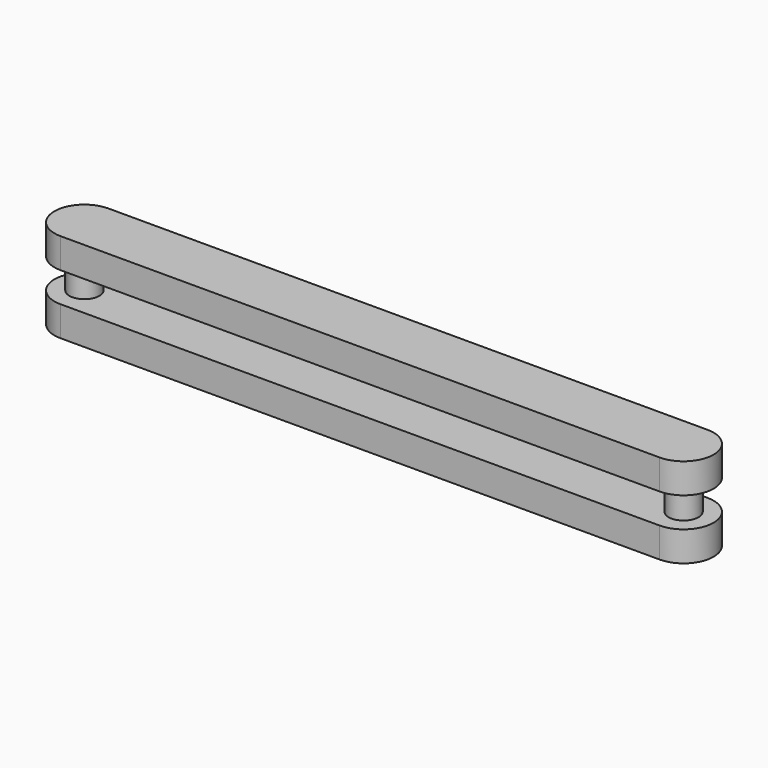
from build123d import *

# Parameters (mm, degrees)
EXTRUDE001_DEPTH = 5
ARRAY_Z_COUNT    = 2
ARRAY_Z_PITCH    = 10
SKETCH002_R      = 2.5
EXTRUDE002_DEPTH = 5


with BuildPart() as array:
    # Sketch001 → Extrude001 (new body)
    with BuildSketch(Plane.XY.offset(-5)):
        with BuildLine():
            ThreePointArc((100, -5), (105, 0), (100, 5))
            Line((0, 5), (100, 5))
            ThreePointArc((0, 5), (-5, 0), (0, -5))
            Line((100, -5), (0, -5))
        make_face()
    extrude(amount=EXTRUDE001_DEPTH)

    # Array Z: Array ×2


with BuildPart() as array_1:
    add(array.part)
    with Locations(*[(0, 0, i * ARRAY_Z_PITCH) for i in range(1, ARRAY_Z_COUNT)]):
        add(array.part)


with BuildPart() as fusion:
    # Sketch002 (on Face6 of Array) → Extrude002 (new body)
    with BuildSketch(Plane.XY):
        Circle(SKETCH002_R)
        with Locations((100, 0)):
            Circle(SKETCH002_R)
    extrude(amount=EXTRUDE002_DEPTH)

    # Fusion: union Array
    add(array_1.part)


solid = fusion.part
